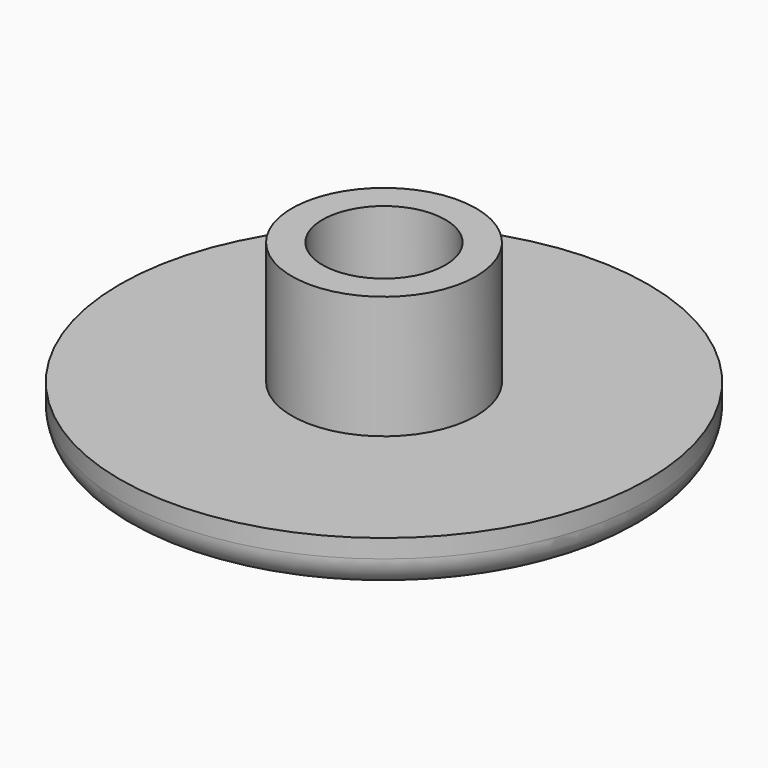
from build123d import *

# Parameters (mm, degrees)
F0_R     = 10.922
F1_DEPTH = 2.032
F2_R     = 3.81
F3_DEPTH = 5.08
F4_R     = 2.54
F5_DEPTH = 5.08
F6_R     = 1.27


with BuildPart() as f1:
    # F0 (on Top) → F1 (new body)
    with BuildSketch(Plane.XY):
        Circle(F0_R)
    extrude(amount=F1_DEPTH)

    # F2 (on face) → F3 (join)
    with BuildSketch(Plane.XY.offset(2.032)):
        Circle(F2_R)
    extrude(amount=F3_DEPTH)

    # F4 (on face) → F5 (cut, through all)
    with BuildSketch(Plane.XY.offset(7.112)):
        Circle(F4_R)
    extrude(amount=-F5_DEPTH, mode=Mode.SUBTRACT)

    # F6
    f6_edges = [f1.edges().sort_by_distance(p)[0] for p in [
        (-10.922, 0, 0),
    ]]
    fillet(f6_edges, radius=F6_R)


solid = f1.part
